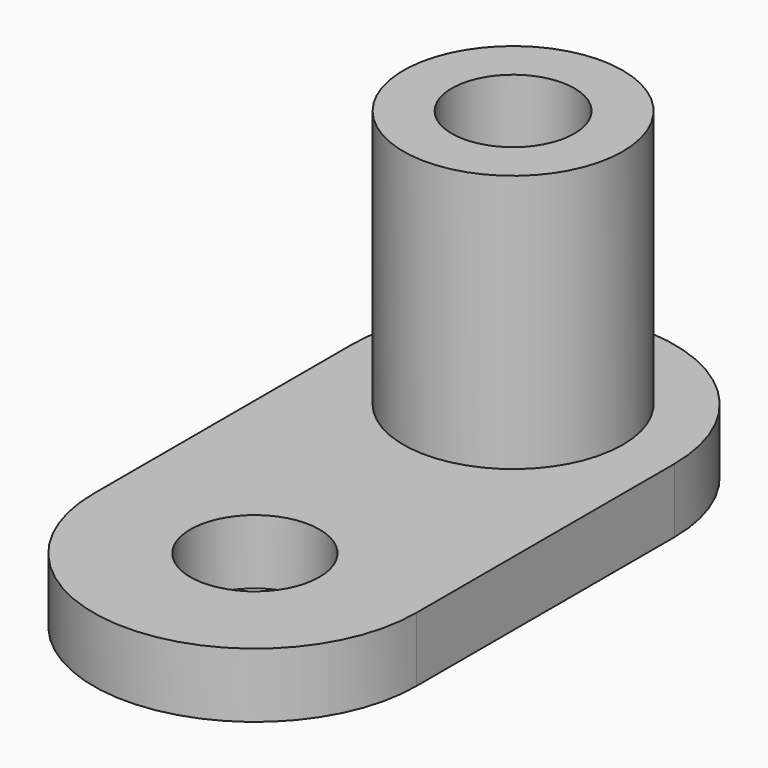
from build123d import *

# Parameters (mm, degrees)
F0_R     = 3.4
F0_R_2   = 1.9
F1_DEPTH = 10
F0_R_3   = 2
F2_DEPTH = 2


with BuildPart() as f1:
    # F0 (on Top) → F1 (new body)
    with BuildSketch(Plane.XY):
        with Locations((0, 4)):
            Circle(F0_R)
        with Locations((0, 4)):
            Circle(F0_R_2, mode=Mode.SUBTRACT)
    extrude(amount=F1_DEPTH)

    # F0 (on Top) → F2 (join)
    with BuildSketch(Plane.XY):
        with BuildLine():
            ThreePointArc((-5, 4), (-3.535534, 0.464466), (0, -1))
            ThreePointArc((0, -1), (3.535534, 0.464466), (5, 4))
            ThreePointArc((5, 4), (0, 9), (-5, 4))
        make_face()
        with Locations((0, 4)):
            Circle(F0_R, mode=Mode.SUBTRACT)
        with BuildLine():
            ThreePointArc((0, -1), (3.535534, -2.464466), (5, -6))
            Line((5, -6), (5, 4))
            ThreePointArc((5, 4), (3.535534, 0.464466), (0, -1))
        make_face()
        with BuildLine():
            ThreePointArc((0, -1), (-3.535534, -2.464466), (-5, -6))
            ThreePointArc((-5, -6), (0, -11), (5, -6))
            ThreePointArc((5, -6), (3.535534, -2.464466), (0, -1))
        make_face()
        with Locations((0, -6)):
            Circle(F0_R_3, mode=Mode.SUBTRACT)
        with BuildLine():
            Line((-5, 4), (-5, -6))
            ThreePointArc((-5, -6), (-3.535534, -2.464466), (0, -1))
            ThreePointArc((0, -1), (-3.535534, 0.464466), (-5, 4))
        make_face()
    extrude(amount=F2_DEPTH)


solid = f1.part
